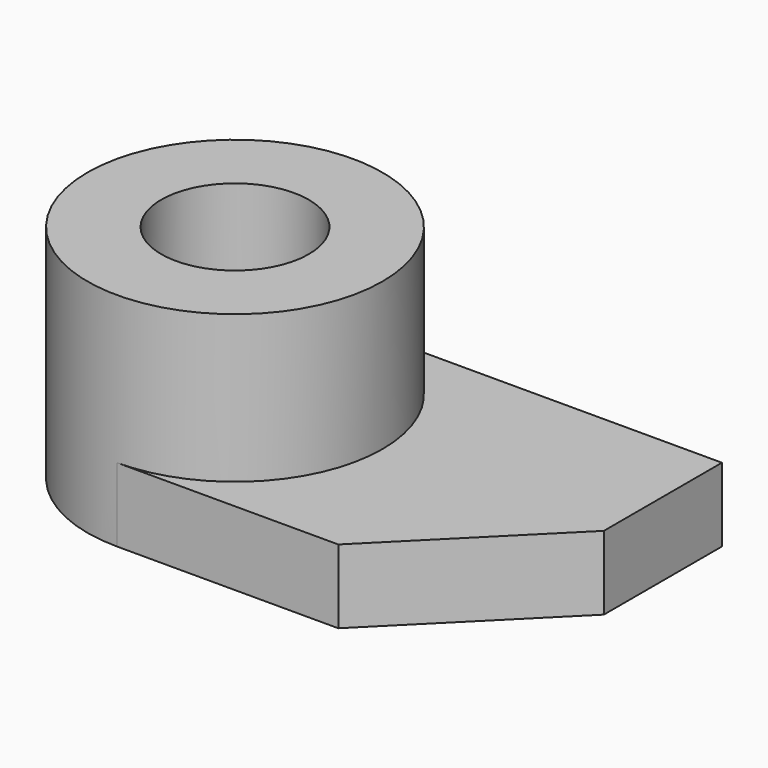
from build123d import *

# Parameters (mm, degrees)
F0_R     = 10
F1_DEPTH = 10
F2_R     = 20
F2_R_2   = 10
F3_DEPTH = 20


with BuildPart() as f1:
    # F0 (on Top) → F1 (new body)
    with BuildSketch(Plane.XY):
        with BuildLine():
            Line((17.914692, 0), (37.914692, 20))
            Line((37.914692, 20), (37.914692, 40))
            Line((37.914692, 40), (-12.085308, 40))
            ThreePointArc((-12.085308, 40), (-32.085308, 20), (-12.085308, 0))
            Line((-12.085308, 0), (17.914692, 0))
        make_face()
        with Locations((-12.085308, 20)):
            Circle(F0_R, mode=Mode.SUBTRACT)
    extrude(amount=F1_DEPTH)

    # F2 (on face) → F3 (join)
    with BuildSketch(Plane.XY.offset(10)):
        with Locations((-12.085308, 20)):
            Circle(F2_R)
        with Locations((-12.085308, 20)):
            Circle(F2_R_2, mode=Mode.SUBTRACT)
    extrude(amount=F3_DEPTH)


solid = f1.part
